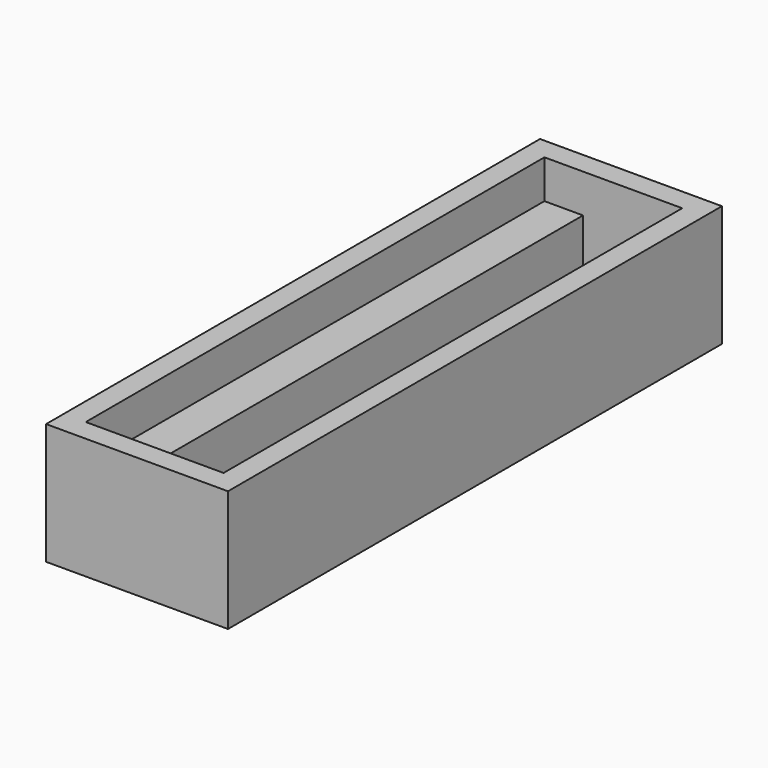
from build123d import *

# Parameters (mm, degrees)
BOX022_W                   = 5.5
BOX022_H                   = 52
BOX022_DEPTH               = 8
PAD010_DEPTH               = 1.1
CHAMFER002_SIZE            = 1
CHAMFER002_PLACEMENT_ANGLE = 180
BOX021_W                   = 12.5
BOX021_H                   = 52
BOX021_DEPTH               = 4
BOX020_W                   = 16.5
BOX020_H                   = 56
BOX020_DEPTH               = 11


with BuildPart() as cube022:
    # Box022 → Box022 (new body)
    with BuildSketch(Plane(origin=(3.25, -9, -0.5), x_dir=(1, 0, 0), z_dir=(0, 0, 1))):
        with Locations((2.75, 26)):
            Rectangle(BOX022_W, BOX022_H)
    extrude(amount=BOX022_DEPTH)


with BuildPart() as chamfer002:
    # Sketch013 → Pad010 (new body)
    with BuildSketch(Plane.XY):
        Polygon((0, 20.777284), (-2.180816, 17), (2.180816, 17), align=None)
    extrude(amount=PAD010_DEPTH)

    # Chamfer002
    chamfer002_edges = [chamfer002.edges().sort_by_distance(p)[0] for p in [
        (-1.090408, 18.888642, 0),
        (0, 17, 0),
        (1.090408, 18.888642, 0),
    ]]
    chamfer(chamfer002_edges, length=CHAMFER002_SIZE)


with BuildPart() as chamfer002_1:
    # Chamfer002 placement: moved
    add(chamfer002.part.moved(Location((11.5, 12.5, 0.9))).rotate(Axis((11.5, 12.5, 0.9), (1, 0, 0)), CHAMFER002_PLACEMENT_ANGLE))


with BuildPart() as fusion012:
    # Box021 → Box021 (new body)
    with BuildSketch(Plane(origin=(-0.25, -9, 7.5), x_dir=(1, 0, 0), z_dir=(0, 0, 1))):
        with Locations((6.25, 26)):
            Rectangle(BOX021_W, BOX021_H)
    extrude(amount=BOX021_DEPTH)

    # Fusion012: union Cube022, Chamfer002
    add(cube022.part)
    add(chamfer002_1.part)


with BuildPart() as obj1:
    # Box020 → Box020 (new body)
    with BuildSketch(Plane(origin=(-2.25, -11, 0), x_dir=(1, 0, 0), z_dir=(0, 0, 1))):
        with Locations((8.25, 28)):
            Rectangle(BOX020_W, BOX020_H)
    extrude(amount=BOX020_DEPTH)

    # Cut023: cut Fusion012
    add(fusion012.part, mode=Mode.SUBTRACT)


solid = obj1.part
